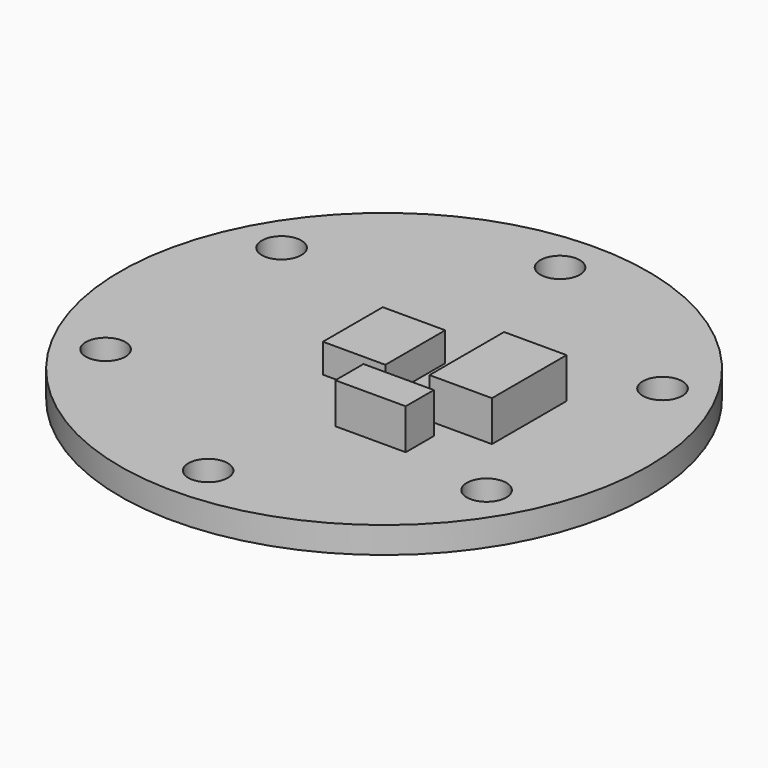
from build123d import *

# Parameters (mm, degrees)
F0_R     = 7.62
F1_DEPTH = 0.762
F2_R     = 0.5715
F3_DEPTH = 0.762
F4_W     = 1.8034
F4_H     = 2.159
F5_DEPTH = 1.6002
F6_W     = 2.032
F6_H     = 1.016
F6_W_2   = 1.8034
F6_H_2   = 2.6924
F7_DEPTH = 1.9304


with BuildPart() as f1:
    # F0 (on Top) → F1 (new body)
    with BuildSketch(Plane.XY):
        Circle(F0_R)
    extrude(amount=F1_DEPTH)

    # F2 (on face) → F3 (cut, through all)
    with BuildSketch(Plane.XY.offset(0.762)):
        with Locations((0, 6.35)):
            Circle(F2_R)
        with Locations((-5.499261, 3.175)):
            Circle(F2_R)
        with Locations((-5.499261, -3.175)):
            Circle(F2_R)
        with Locations((0, -6.35)):
            Circle(F2_R)
        with Locations((5.499261, -3.175)):
            Circle(F2_R)
        with Locations((5.499261, 3.175)):
            Circle(F2_R)
    extrude(amount=-F3_DEPTH, mode=Mode.SUBTRACT)

    # F4 (on face) → F5 (join)
    with BuildSketch(Plane(origin=(0, 0, 0), x_dir=(1, 0, 0), z_dir=(0, 0, -1))):
        Rectangle(F4_W, F4_H)
    extrude(amount=-F5_DEPTH)

    # F6 (on face) → F7 (join)
    with BuildSketch(Plane(origin=(0, 0, 0), x_dir=(1, 0, 0), z_dir=(0, 0, -1))):
        with Locations((1.905, 2.3622)):
            Rectangle(F6_W, F6_H)
        with Locations((3.2893, 0)):
            Rectangle(F6_W_2, F6_H_2)
    extrude(amount=-F7_DEPTH)


solid = f1.part
